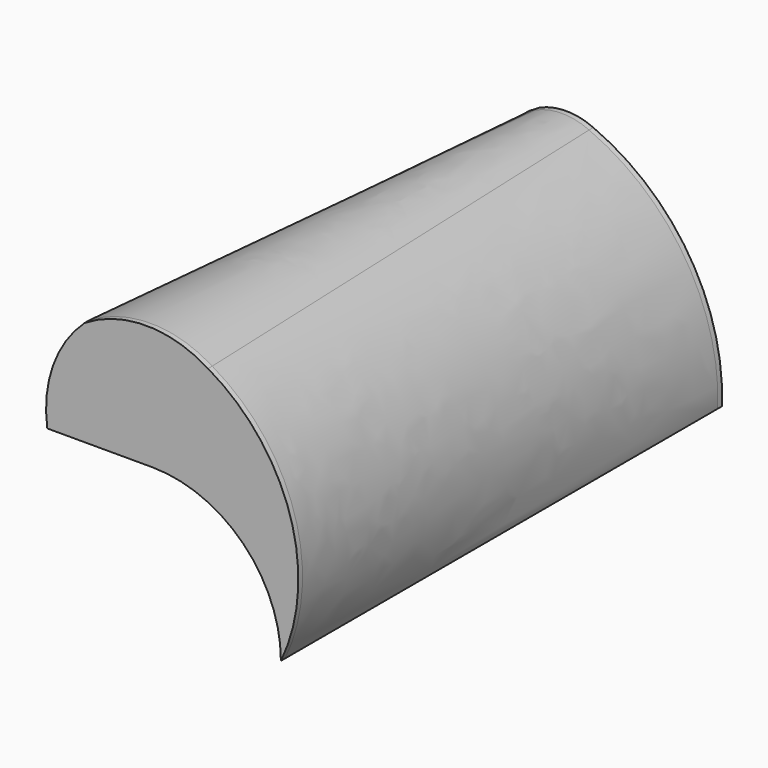
from build123d import *

# Parameters (mm, degrees)
F3_DEPTH = 1
F4_DEPTH = 1


with BuildPart() as f3:
    # F0 (on Front) → F3 (new body)
    with BuildSketch(Plane.XZ):
        with BuildLine():
            ThreePointArc((0, 24.5), (17.324116, 17.324116), (24.5, 0))
            ThreePointArc((24.5, 0), (26.262022, 24.963942), (10.620872, 44.5))
            ThreePointArc((10.620872, 44.5), (-1.136736, 47.879267), (-12.894344, 44.5))
            ThreePointArc((-12.894344, 44.5), (-18.918747, 35.378108), (-20, 24.5))
            Line((-20, 24.5), (-12.894344, 24.5))
            Line((-12.894344, 24.5), (0, 24.5))
        make_face()
    extrude(amount=-F3_DEPTH)


with BuildPart() as f4:
    # F2 (on offset) → F4 (new body)
    with BuildSketch(Plane.XZ.offset(-105)):
        with BuildLine():
            Line((-20, 24.5), (0, 24.5))
            ThreePointArc((0, 24.5), (17.324116, 17.324116), (24.5, 0))
            ThreePointArc((24.5, 0), (18.310327, 23.217635), (0, 38.777281))
            ThreePointArc((0, 38.777281), (-5.135931, 39.886059), (-10.271862, 38.777281))
            ThreePointArc((-10.271862, 38.777281), (-16.902065, 32.842034), (-20, 24.5))
        make_face()
    extrude(amount=F4_DEPTH)


with BuildPart() as f5:
    # F4_face (on face) → F5 section 0
    with BuildSketch(Plane(origin=(0.282722, 104, 28.774045), x_dir=(1, 0, 0), z_dir=(0, -1, 0))):
        with BuildLine():
            ThreePointArc((-0.282722, 10.003236), (-5.418653, 11.112015), (-10.554584, 10.003236))
            ThreePointArc((-10.554584, 10.003236), (-17.184787, 4.06799), (-20.282722, -4.274045))
            Line((-20.282722, -4.274045), (-0.282722, -4.274045))
            ThreePointArc((-0.282722, -4.274045), (17.041394, -11.449929), (24.217278, -28.774045))
            ThreePointArc((24.217278, -28.774045), (18.027605, -5.55641), (-0.282722, 10.003236))
        make_face()
    # F3_face (on face) → F5 section 1
    with BuildSketch(Plane(origin=(4.895741, 1, 31.20711), x_dir=(1, 0, 0), z_dir=(0, 1, 0))):
        with BuildLine():
            ThreePointArc((19.604259, 31.20711), (12.428376, 13.882994), (-4.895741, 6.70711))
            Line((-4.895741, 6.70711), (-24.895741, 6.70711))
            ThreePointArc((-24.895741, 6.70711), (-23.814488, -4.170998), (-17.790084, -13.29289))
            ThreePointArc((-17.790084, -13.29289), (-6.032476, -16.672156), (5.725132, -13.29289))
            ThreePointArc((5.725132, -13.29289), (21.366281, 6.243168), (19.604259, 31.20711))
        make_face()
    loft()


solid = Compound([f3.part, f4.part, f5.part])
